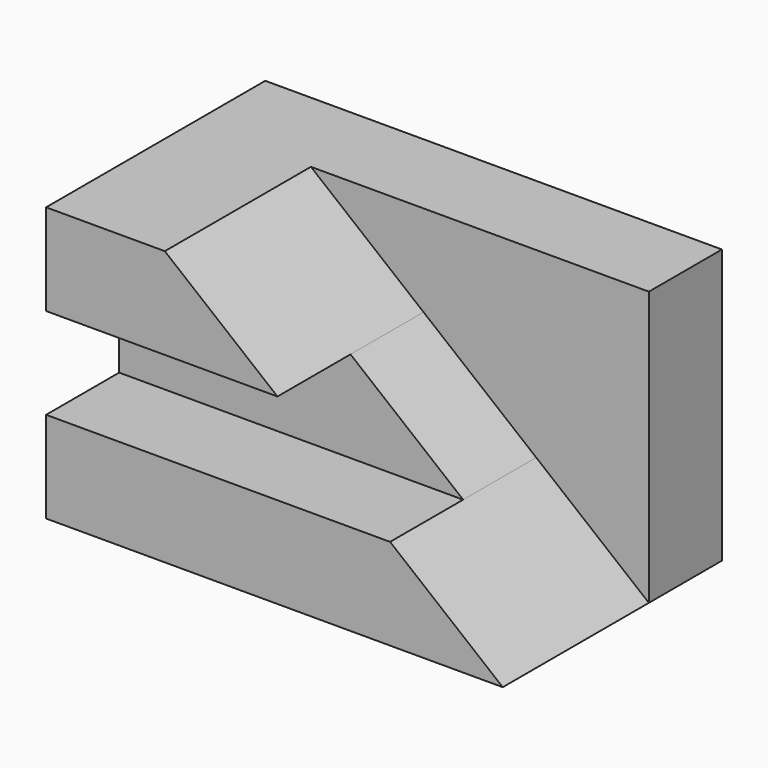
from build123d import *

# Parameters (mm, degrees)
F1_DEPTH = 30
F2_DEPTH = 20
F3_DEPTH = 10


with BuildPart() as f1:
    # F0 (on Front) → F1 (new body)
    with BuildSketch(Plane.XZ):
        Polygon((0, 10), (0, 0), (50, 0), (37.666667, 10), align=None)
        Polygon((37.666667, 10), (50, 0), (50, 30), (13, 30), (25.333333, 20), align=None)
        Polygon((0, 20), (0, 10), (37.666667, 10), (25.333333, 20), align=None)
        Polygon((0, 30), (0, 20), (25.333333, 20), (13, 30), align=None)
    extrude(amount=-F1_DEPTH)

    # F0 (on Front) → F2 (cut)
    with BuildSketch(Plane.XZ):
        Polygon((37.666667, 10), (50, 0), (50, 30), (13, 30), (25.333333, 20), align=None)
    extrude(amount=-F2_DEPTH, mode=Mode.SUBTRACT)

    # F0 (on Front) → F3 (cut)
    with BuildSketch(Plane.XZ):
        Polygon((0, 20), (0, 10), (37.666667, 10), (25.333333, 20), align=None)
    extrude(amount=-F3_DEPTH, mode=Mode.SUBTRACT)


solid = f1.part
